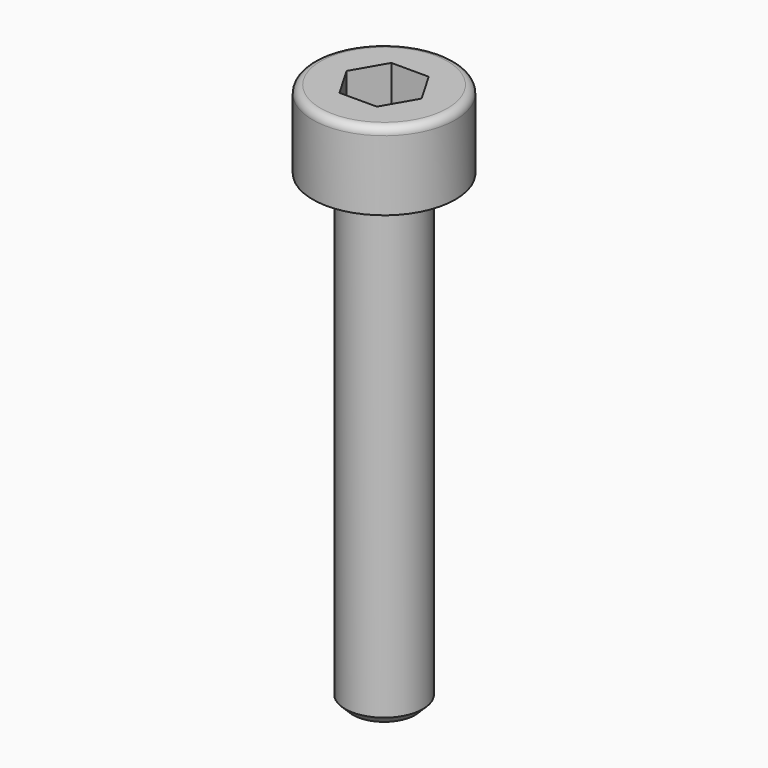
from build123d import *

# Parameters (mm, degrees)
F0_R     = 2.75
F1_DEPTH = 3
F2_R     = 1.5
F3_DEPTH = 18
F4_SIZE  = 0.3
F5_R     = 0.3
F7_DEPTH = 1.5


with BuildPart() as f1:
    # F0 (on Top) → F1 (new body)
    with BuildSketch(Plane.XY):
        Circle(F0_R)
    extrude(amount=F1_DEPTH)

    # F2 (on face) → F3 (join)
    with BuildSketch(Plane(origin=(0, 0, 0), x_dir=(1, 0, 0), z_dir=(0, 0, -1))):
        Circle(F2_R)
    extrude(amount=F3_DEPTH)

    # F4
    f4_edges = [f1.edges().sort_by_distance(p)[0] for p in [
        (-1.5, 0, -18),
    ]]
    chamfer(f4_edges, length=F4_SIZE)

    # F5
    f5_edges = [f1.edges().sort_by_distance(p)[0] for p in [
        (-2.75, 0, 3),
    ]]
    fillet(f5_edges, radius=F5_R)

    # F6 (on face) → F7 (cut)
    with BuildSketch(Plane.XY.offset(3)):
        Polygon((0.721688, 1.25), (-0.721688, 1.25), (-1.443376, 0), (-0.721688, -1.25), (0.721688, -1.25), (1.443376, 0), align=None)
    extrude(amount=-F7_DEPTH, mode=Mode.SUBTRACT)


solid = f1.part
